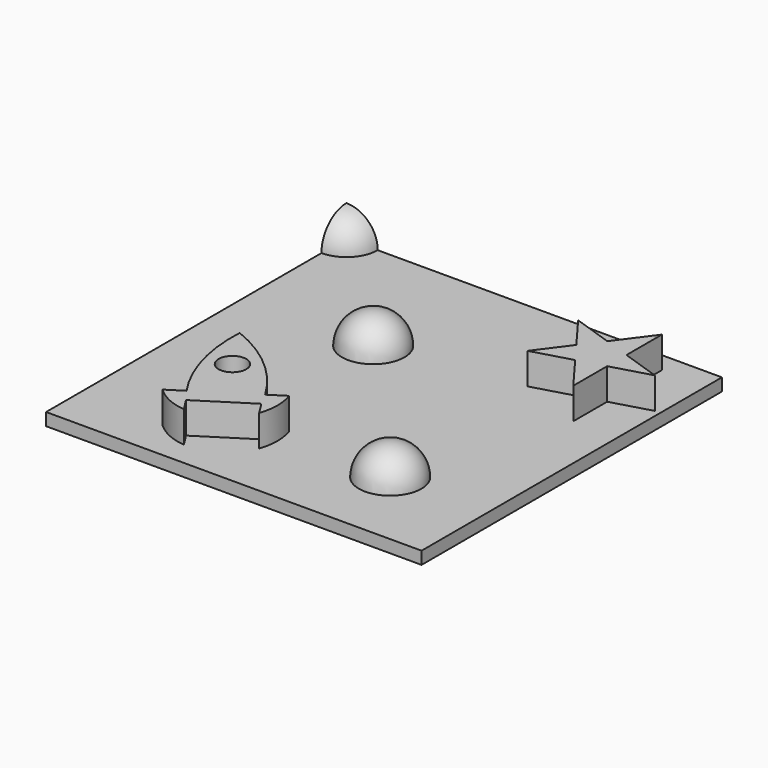
from build123d import *

# Parameters (mm, degrees)
F0_W     = 152.4
F0_H     = 152.4
F2_DEPTH = 5.08
F5_ANGLE = 90
F6_ANGLE = 180
F7_ANGLE = 180
F4_R     = 5.6279425354
F8_DEPTH = 12.7


with BuildPart() as f2:
    # F0 (on Top) → F2 (new body)
    with BuildSketch(Plane.XY):
        Rectangle(F0_W, F0_H)
    extrude(amount=F2_DEPTH)

    # F4 (on face) → F5 (revolve)
    with BuildSketch(Plane.XY.offset(5.08)):
        with BuildLine():
            Line((-76.2, 76.2), (-76.2, 63.5))
            ThreePointArc((-76.2, 63.5), (-67.2197438789, 67.2197438789), (-63.5, 76.2))
            Line((-63.5, 76.2), (-76.2, 76.2))
        make_face()
    revolve(axis=Axis((-76.2, 0, 5.08), (0, -1, 0)), revolution_arc=F5_ANGLE)

    # F4 (on face) → F6 (revolve)
    with BuildSketch(Plane.XY.offset(5.08)):
        with BuildLine():
            Line((24.2210256122, -43.0185761551), (49.6210256122, -43.0185761551))
            ThreePointArc((49.6210256122, -43.0185761551), (36.9210256122, -30.3185761551), (24.2210256122, -43.0185761551))
        make_face()
    revolve(axis=Axis((36.9210256122, -43.0185761551, 5.08), (1, 0, 0)), revolution_arc=F6_ANGLE)

    # F4 (on face) → F7 (revolve)
    with BuildSketch(Plane.XY.offset(5.08)):
        with BuildLine():
            ThreePointArc((-10.9549105823, 24.090602994), (-23.6549105823, 36.790602994), (-36.3549105823, 24.090602994))
            Line((-36.3549105823, 24.090602994), (-10.9549105823, 24.090602994))
        make_face()
    revolve(axis=Axis((-23.6549105823, 24.090602994, 5.08), (1, 0, 0)), revolution_arc=F7_ANGLE)

    # F4 (on face) → F8 (join)
    with BuildSketch(Plane.XY.offset(5.08)):
        Polygon((47.570896451, 53.8189061847), (31.3873370203, 59.2746157033), (41.5168850169, 45.6796259761), (31.9747962058, 32.8508205712), (47.7112500038, 37.36609329), (58.2554601133, 23.2145804912), (58.2554601133, 40.3915515578), (74.0002126055, 44.9092054273), (58.2554601133, 50.2169868464), (58.2554601133, 68.1837052107), align=None)
        with BuildLine():
            ThreePointArc((-35.3100343123, -56.0667765948), (-33.4447317203, -58.6502472307), (-31.4584446243, -61.1419008701))
            Line((-31.4584446243, -61.1419008701), (-11.2081296183, -48.2286563014))
            ThreePointArc((-11.2081296183, -48.2286563014), (-12.6293719871, -45.3766842792), (-14.1848974706, -42.5956746142))
            ThreePointArc((-14.1848974706, -42.5956746142), (-28.2369814707, -25.8469443278), (-46.9412207919, -14.5273832774))
            ThreePointArc((-46.9412207919, -14.5273832774), (-44.5680834417, -36.2609805423), (-35.3100343123, -56.0667765948))
        make_face()
        with Locations((-35.3753649504, -32.6647478149)):
            Circle(F4_R, mode=Mode.SUBTRACT)
        with BuildLine():
            ThreePointArc((-14.1848974706, -42.5956746142), (-12.6293719871, -45.3766842792), (-11.2081296183, -48.2286563014))
            Line((-11.2081296183, -48.2286563014), (-7.7939508483, -53.5827092826))
            ThreePointArc((-7.7939508483, -53.5827092826), (-6.5000191862, -46.0352288655), (-7.7248563313, -38.4762280214))
            Line((-7.7248563313, -38.4762280214), (-14.1848974706, -42.5956746142))
        make_face()
        with BuildLine():
            Line((-28.0442658543, -66.4959538513), (-31.4584446243, -61.1419008701))
            ThreePointArc((-31.4584446243, -61.1419008701), (-33.4447317203, -58.6502472307), (-35.3100343123, -56.0667765948))
            Line((-35.3100343123, -56.0667765948), (-41.7700754515, -60.1862231876))
            ThreePointArc((-41.7700754515, -60.1862231876), (-35.4331949634, -64.4853702509), (-28.0442658543, -66.4959538513))
        make_face()
    extrude(amount=F8_DEPTH)


solid = f2.part
